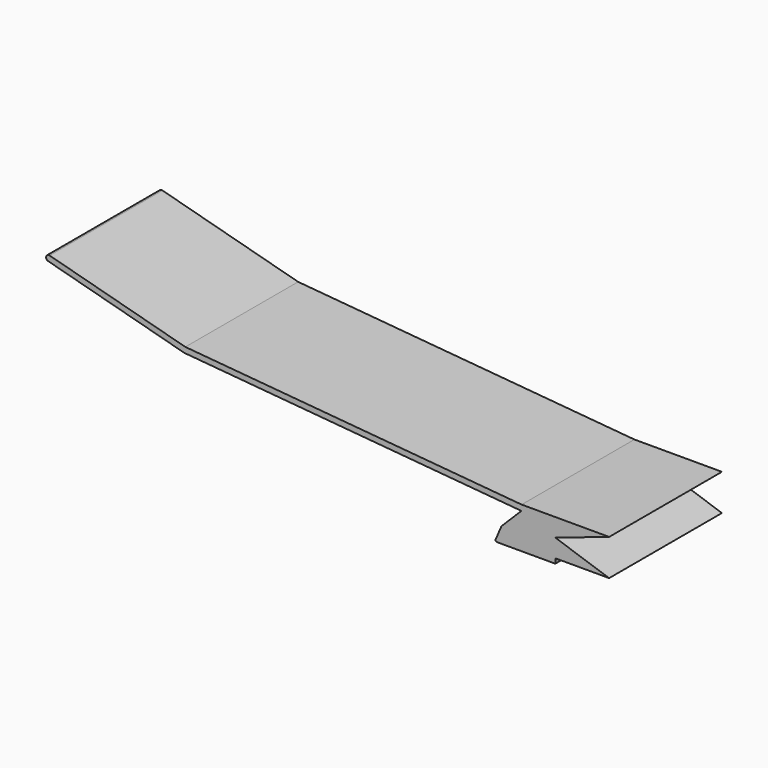
from build123d import *

# Parameters (mm, degrees)
F1_DEPTH = 25
F2_DEPTH = 12.5


with BuildPart() as f1:
    # F0 (on Front) → F1 (new body, symmetric)
    with BuildSketch(Plane.XZ):
        with BuildLine():
            Line((28.372877, -6.775675), (26.320454, -11.57922))
            ThreePointArc((26.320454, -11.57922), (26.362973, -12.051149), (26.780242, -12.275675))
            Line((26.780242, -12.275675), (47.480242, -12.275675))
            Line((47.480242, -12.275675), (47.480242, -10.575675))
            Line((47.480242, -10.575675), (66.565513, -10.575675))
            Line((66.565513, -10.575675), (47.480242, -4.14014))
            Line((47.480242, -4.14014), (66.565513, 2.295394))
            Line((66.565513, 2.295394), (35.531267, 2.295394))
            Line((35.531267, 2.295394), (-83.750795, 12.731222))
            Line((-83.750795, 12.731222), (-131.878072, 25.626887))
            ThreePointArc((-131.878072, 25.626887), (-133.102817, 24.91978), (-132.39571, 23.695035))
            Line((-132.39571, 23.695035), (-84.099419, 10.754082))
            Line((-84.099419, 10.754082), (35.443945, 0.295393))
            Line((35.443945, 0.295393), (29.787091, -5.361461))
            Line((29.787091, -5.361461), (28.372877, -6.775675))
        make_face()
    extrude(amount=F1_DEPTH, both=True)

    # F0 (on Front) → F2 (join, symmetric)
    with BuildSketch(Plane.XZ):
        Polygon((-84.099419, 10.754082), (29.787091, -5.361461), (35.443945, 0.295393), align=None)
    extrude(amount=F2_DEPTH, both=True)


solid = f1.part
